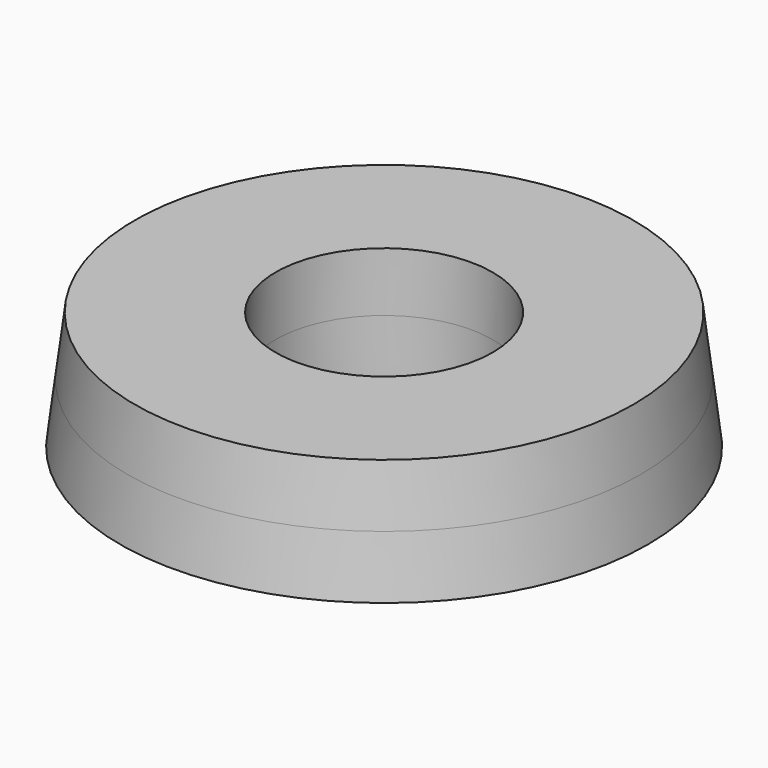
from build123d import *

# Parameters (mm, degrees)
F0_R          = 26
F0_R_2        = 11
F1_DEPTH      = 6
F1_TAPER      = 7
F2_DEPTH      = 6
F2_TAPER      = -7
F3_DEPTH      = 6
F3_DEPTH_BACK = 6


with BuildPart() as f1:
    # F0 (on Top) → F1 (new body)
    with BuildSketch(Plane.XY):
        Circle(F0_R)
        Circle(F0_R_2, mode=Mode.SUBTRACT)
        Circle(F0_R_2)
    extrude(amount=F1_DEPTH, taper=F1_TAPER)

    # F0 (on Top) → F2 (join)
    with BuildSketch(Plane.XY):
        Circle(F0_R)
        Circle(F0_R_2, mode=Mode.SUBTRACT)
        Circle(F0_R_2)
    extrude(amount=-F2_DEPTH, taper=F2_TAPER)

    # F0 (on Top) → F3 (cut, two sides)
    with BuildSketch(Plane.XY) as f3_sk:
        Circle(F0_R_2)
    extrude(amount=F3_DEPTH, mode=Mode.SUBTRACT)
    extrude(f3_sk.sketch, amount=-F3_DEPTH_BACK, mode=Mode.SUBTRACT)


solid = f1.part
